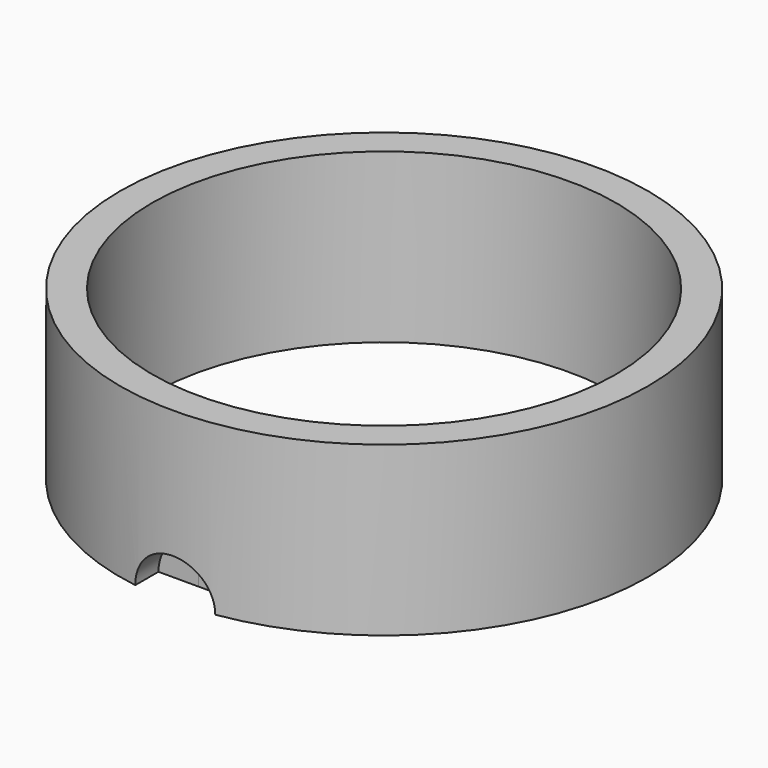
from build123d import *

# Parameters (mm, degrees)
CYLINDER_R     = 5
CYLINDER_DEPTH = 10
TUBE_R         = 33
TUBE_R_2       = 29
TUBE_DEPTH     = 21
SKETCH001_R    = 1.032289
POCKET_DEPTH   = 5


with BuildPart() as cylinder:
    # Cylinder → Cylinder (new body)
    with BuildSketch(Plane.XZ.offset(29)):
        Circle(CYLINDER_R)
    extrude(amount=CYLINDER_DEPTH)


with BuildPart() as body004:
    # Tube → Tube (new body)
    with BuildSketch(Plane.XY):
        Circle(TUBE_R)
        Circle(TUBE_R_2, mode=Mode.SUBTRACT)
    extrude(amount=TUBE_DEPTH)

    # Cut: cut Cylinder
    add(cylinder.part, mode=Mode.SUBTRACT)

    # Sketch001 (on DatumPlane) → Pocket (cut)
    with BuildSketch(Plane(origin=(0, 0, 0), x_dir=(1, 0, 0), z_dir=(0, 0, -1))):
        with Locations((-30.899429, 0)):
            Circle(SKETCH001_R)
    pocket = extrude(amount=-POCKET_DEPTH, mode=Mode.SUBTRACT)

    # Mirrored: Pocket across Sketch001 V_Axis
    add(pocket.mirror(Plane(origin=(0, 0, 0), x_dir=(0, 0, -1), z_dir=(1, 0, 0))), mode=Mode.SUBTRACT)


solid = body004.part
